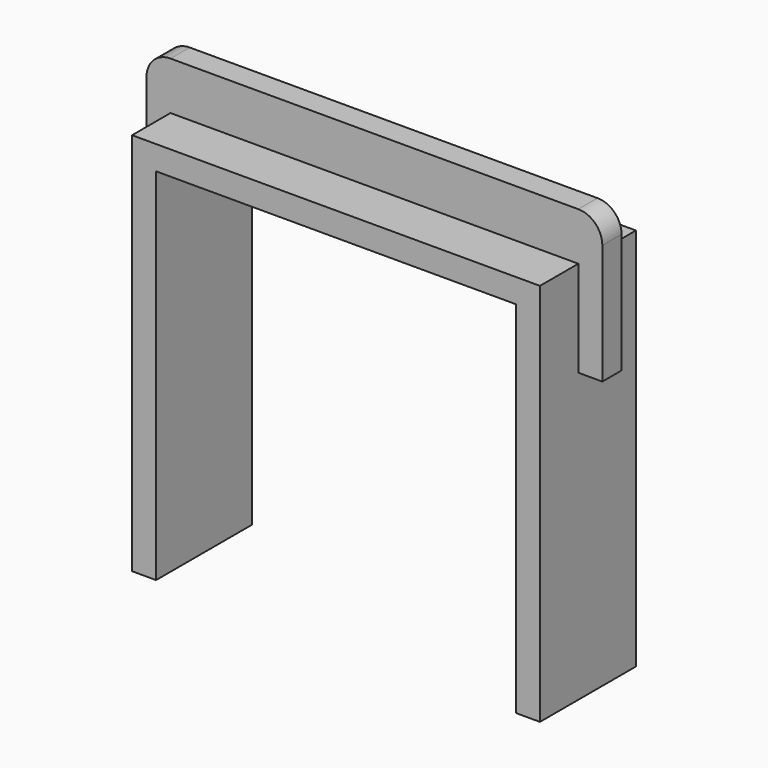
from build123d import *

# Parameters (mm, degrees)
F1_DEPTH = 25
F2_DEPTH = 5


with BuildPart() as f1:
    # F0 (on Front) → F1 (new body, symmetric)
    with BuildSketch(Plane.XZ):
        Polygon((-85, 3.0538571584), (-85, -116.9461835988), (-75, -116.9461835988), (-75, 33.0538164012), (75, 33.0538164012), (75, -116.9461835988), (85, -116.9461835988), (85, 3.0538571584), (85, 43.0538164012), (-85, 43.0538164012), align=None)
    extrude(amount=F1_DEPTH, both=True)

    # F0 (on Front) → F2 (join, symmetric)
    with BuildSketch(Plane.XZ):
        Polygon((-85, 3.0538571584), (-85, -116.9461835988), (-75, -116.9461835988), (-75, 33.0538164012), (75, 33.0538164012), (75, -116.9461835988), (85, -116.9461835988), (85, 3.0538571584), (85, 43.0538164012), (-85, 43.0538164012), align=None)
        with BuildLine():
            Line((-95, 3.0538571584), (-85, 3.0538571584))
            Line((-85, 3.0538571584), (-85, 43.0538164012))
            Line((-85, 43.0538164012), (85, 43.0538164012))
            Line((85, 43.0538164012), (85, 3.0538571584))
            Line((85, 3.0538571584), (95, 3.0538571584))
            Line((95, 3.0538571584), (95, 53.0538164012))
            ThreePointArc((95, 53.0538164012), (92.0710678119, 60.124884213), (85, 63.0538164012))
            Line((85, 63.0538164012), (-85, 63.0538164012))
            ThreePointArc((-85, 63.0538164012), (-92.0710678119, 60.124884213), (-95, 53.0538164012))
            Line((-95, 53.0538164012), (-95, 3.0538571584))
        make_face()
    extrude(amount=F2_DEPTH, both=True)


solid = f1.part
